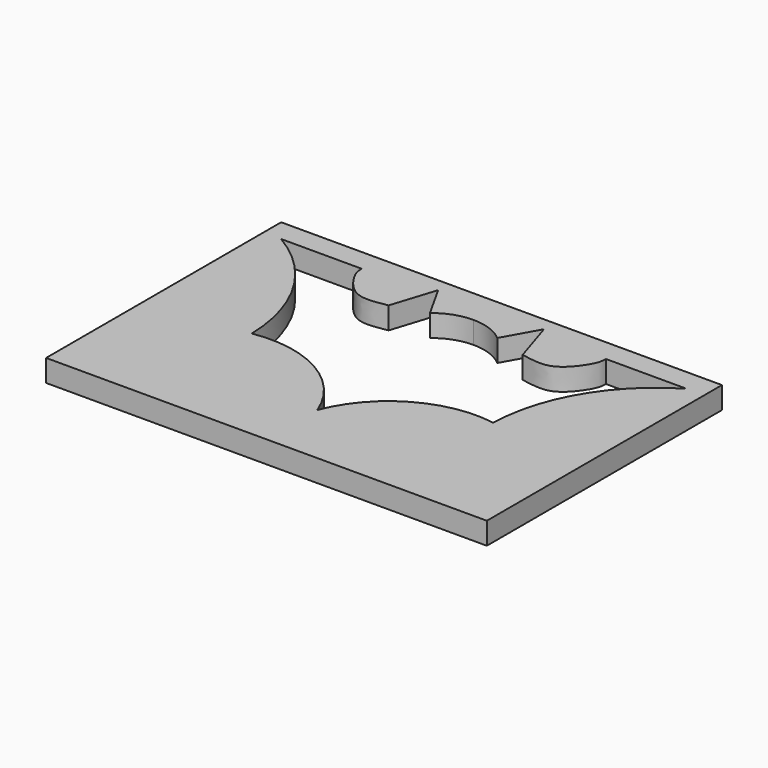
from build123d import *

# Parameters (mm, degrees)
F0_W     = 76.2
F0_H     = 50.8
F1_DEPTH = 3.81


with BuildPart() as f1:
    # F0 (on Top) → F1 (new body)
    with BuildSketch(Plane.XY):
        with Locations((38.1, -25.4)):
            Rectangle(F0_W, F0_H)
        with BuildLine():
            ThreePointArc((32.2713132698, -8.1910053984), (34.9982556126, -6.6148416969), (38.1, -6.0674037456))
            ThreePointArc((38.1, -6.0674037456), (41.2017443874, -6.6148416969), (43.9286867302, -8.1910053984))
            Line((43.9286867302, -8.1910053984), (47.2437394679, -2.2650700994))
            Line((47.2437394679, -2.2650700994), (49.677313295, -9.913450107))
            add(Edge.make_bspline(
                [(49.677313295, -9.913450107), (51.6724769061, -10.2585751247), (55.2542770973, -11.020934668), (58.7895795079, -6.2036148671), (59.1740704256, -4.8703926058), (59.2377884209, -3.8295113482)],
                knots=[0, 0, 0, 0, 0.376997189, 0.741630507, 1, 1, 1, 1], degree=3))
            Line((59.2377884209, -3.8295113482), (73.1439341221, -3.8295113482))
            ThreePointArc((73.1439341221, -3.8295113482), (62.9317463629, -14.0150858198), (58.9747386434, -27.8850820726))
            ThreePointArc((58.9747386434, -27.8850820726), (46.4096787445, -30.1243394887), (38.1, -39.8116633296))
            ThreePointArc((38.1, -39.8116633296), (29.7903212555, -30.1243394887), (17.2252613566, -27.8850820726))
            ThreePointArc((17.2252613566, -27.8850820726), (13.2682536371, -14.0150858198), (3.0560658779, -3.8295113482))
            Line((3.0560658779, -3.8295113482), (16.9622115791, -3.8295113482))
            add(Edge.make_bspline(
                [(26.522686705, -9.913450107), (24.5275230939, -10.2585751247), (20.9457229027, -11.020934668), (17.4104204921, -6.2036148671), (17.0259295744, -4.8703926058), (16.9622115791, -3.8295113482)],
                knots=[0, 0, 0, 0, 0.376997189, 0.741630507, 1, 1, 1, 1], degree=3))
            Line((26.522686705, -9.913450107), (28.9562605321, -2.2650700994))
            Line((28.9562605321, -2.2650700994), (32.2713132698, -8.1910053984))
        make_face(mode=Mode.SUBTRACT)
    extrude(amount=F1_DEPTH)


solid = f1.part
